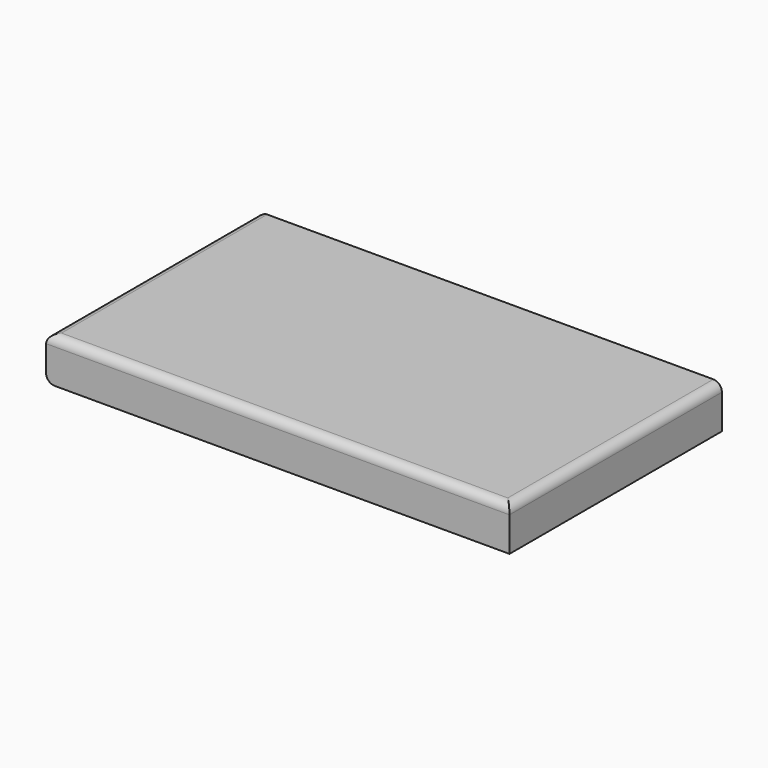
from build123d import *

# Parameters (mm, degrees)
F0_W     = 269.468337
F0_H     = 154.401242
F1_DEPTH = 25
F2_R     = 5


with BuildPart() as f1:
    # F0 (on Top) → F1 (new body)
    with BuildSketch(Plane.XY):
        with Locations((-2.100512, -2.653651)):
            Rectangle(F0_W, F0_H)
    extrude(amount=F1_DEPTH)

    # F2
    f2_edges = [f1.edges().sort_by_distance(p)[0] for p in [
        (-2.100512, -79.854272, 25),
        (132.633656, -2.653651, 25),
        (-136.834681, -2.653651, 25),
        (-136.834681, -2.653651, 0),
        (-136.834681, 74.54697, 12.5),
    ]]
    fillet(f2_edges, radius=F2_R)


solid = f1.part
